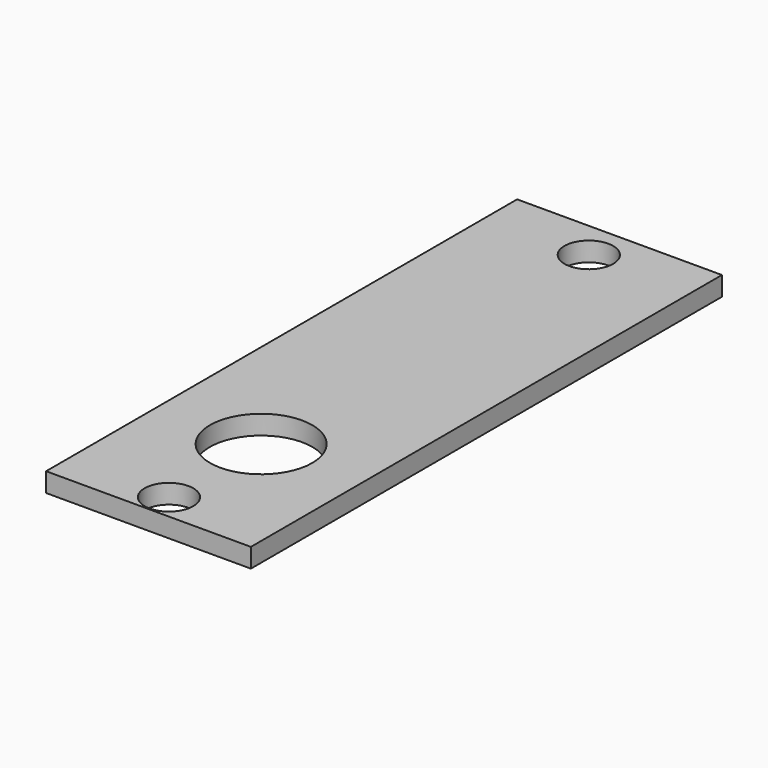
from build123d import *

# Parameters (mm, degrees)
F0_W     = 16
F0_H     = 46
F0_R     = 1.9
F0_R_2   = 4
F1_DEPTH = 1.5


with BuildPart() as f1:
    # F0 (on Top) → F1 (new body)
    with BuildSketch(Plane.XY):
        Rectangle(F0_W, F0_H)
        with Locations((0, -21)):
            Circle(F0_R, mode=Mode.SUBTRACT)
        with Locations((0, -12)):
            Circle(F0_R_2, mode=Mode.SUBTRACT)
        with Locations((0, 20)):
            Circle(F0_R, mode=Mode.SUBTRACT)
    extrude(amount=F1_DEPTH)


solid = f1.part
